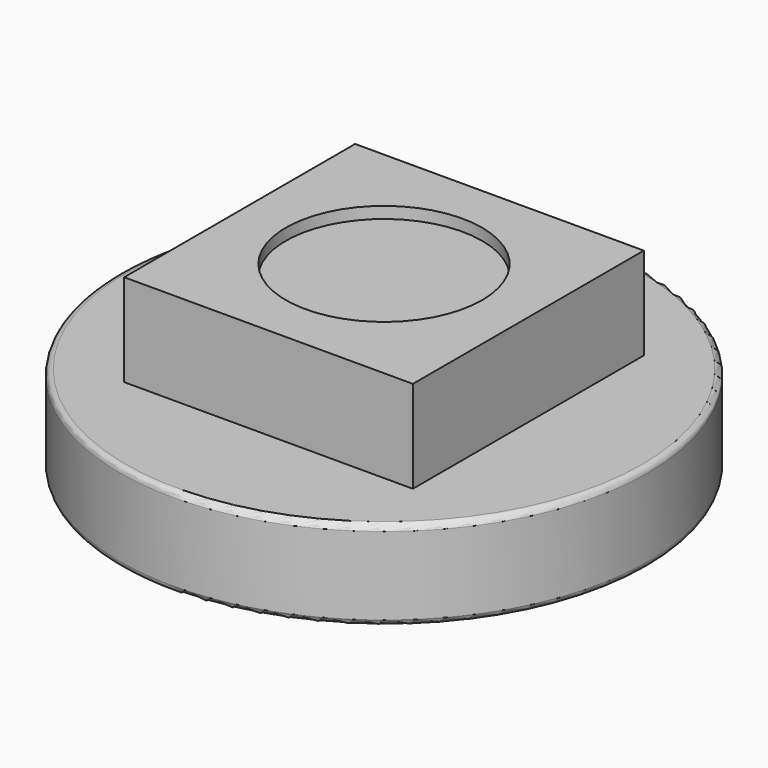
from build123d import *

# Parameters (mm, degrees)
SKETCH005_R     = 4.575
PAD002_DEPTH    = 1.55
SKETCH004_W     = 5
SKETCH004_H     = 5
PAD003_DEPTH    = 1.6
SKETCH006_R     = 1.7
POCKET001_DEPTH = 0.2
FILLET001_R     = 0.1


with BuildPart() as part:
    # Sketch005 → Pad002 (new body)
    with BuildSketch(Plane.XY):
        Circle(SKETCH005_R)
    extrude(amount=PAD002_DEPTH)

    # Sketch004 (on Face3 of Pad002) → Pad003 (join)
    with BuildSketch(Plane.XY.offset(1.55)):
        Rectangle(SKETCH004_W, SKETCH004_H)
    extrude(amount=PAD003_DEPTH)

    # Sketch006 (on Face8 of Pad003) → Pocket001 (cut)
    with BuildSketch(Plane.XY.offset(3.15)):
        Circle(SKETCH006_R)
    extrude(amount=-POCKET001_DEPTH, mode=Mode.SUBTRACT)

    # Fillet001
    fillet001_edges = [part.edges().sort_by_distance(p)[0] for p in [
        (-4.575, 0, 0),
        (-4.575, 0, 1.55),
    ]]
    fillet(fillet001_edges, radius=FILLET001_R)


with BuildPart() as part_1:
    # Body002 placement: moved
    add(part.part.moved(Location((0, -22, 0))))


solid = part_1.part
